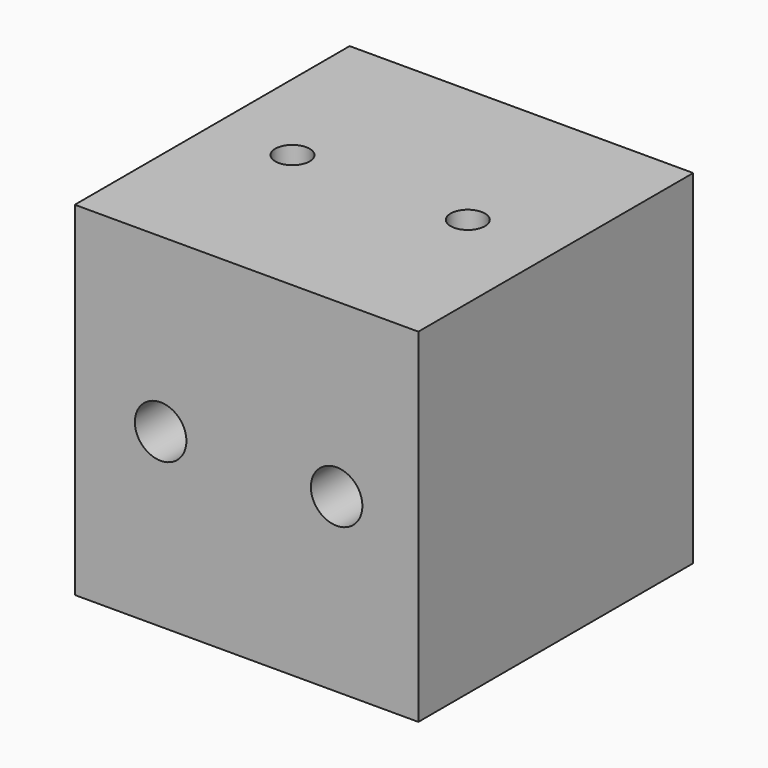
from build123d import *

# Parameters (mm, degrees)
F0_W     = 20
F0_H     = 20
F1_DEPTH = 20
F2_DEPTH = 20
F3_D     = 2
F3_DEPTH = 5
F3_TIP   = 0.600860619
F5_D     = 2
F5_DEPTH = 5
F5_TIP   = 0.600860619
F7_D     = 3


with BuildPart() as f1:
    # F0 (on Top) → F1 (new body)
    with BuildSketch(Plane.XY):
        with Locations((-7.549341768, 7.9021853259)):
            Rectangle(F0_W, F0_H)
    extrude(amount=F1_DEPTH)

    # F0 (on Top) → F2 (join)
    with BuildSketch(Plane.XY):
        with Locations((-7.549341768, 7.9021853259)):
            Rectangle(F0_W, F0_H)
    extrude(amount=F2_DEPTH)

    # F3
    with Locations(Plane(origin=(0, 0, 0), x_dir=(1, 0, 0), z_dir=(0, 0, -1))):
        with Locations((-12.8782894462, -7.9021853259), (-2.5164496619, -7.9021853259)):
            Hole(F3_D / 2, depth=F3_DEPTH)
            with Locations((0, 0, -(F3_DEPTH + F3_TIP / 2))):  # 118° drill point
                Cone(0, F3_D / 2, F3_TIP, mode=Mode.SUBTRACT)

    # F5
    with Locations(Plane.XY.offset(20)):
        with Locations((-12.8782894462, 7.9021853259), (-2.6713556144, 7.9021853259)):
            Hole(F5_D / 2, depth=F5_DEPTH)
            with Locations((0, 0, -(F5_DEPTH + F5_TIP / 2))):  # 118° drill point
                Cone(0, F5_D / 2, F5_TIP, mode=Mode.SUBTRACT)

    # F7 (through all)
    with Locations(Plane.XZ.offset(2.0978146741)):
        with Locations((-12.5512500335, 10.0038165309), (-2.3071385143, 10.0038165309)):
            Hole(F7_D / 2)


solid = f1.part
